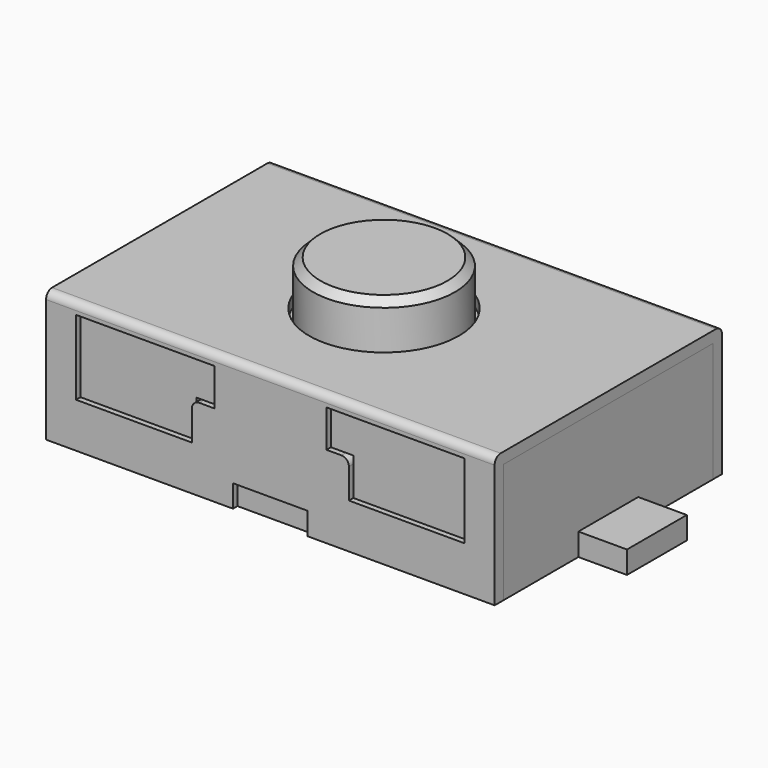
from build123d import *

# Parameters (mm, degrees)
F0_R          = 1
F1_DEPTH      = 1.75
F0_W          = 0.65
F0_H          = 1
F2_DEPTH      = 0.3
F3_W          = 1.55
F3_H          = 0.5
F3_W_2        = 1
F3_H_2        = 0.3
F4_DEPTH      = 1.901
F4_DEPTH_BACK = 1.901
F5_W          = 6
F5_H          = 3.5
F6_DEPTH      = 1.6
F7_W          = 6
F7_H          = 3.65
F8_DEPTH      = 1.6
F10_R         = 0.95
F11_DEPTH     = 0.75
F12_R         = 0.1
F13_SIZE      = 0.1


with BuildPart() as f1:
    # F0 (on Top) → F1 (new body)
    with BuildSketch(Plane.XY):
        Polygon((3, 1.9), (-3, 1.9), (-3, 0.5), (-3, -0.5), (-3, -1.9), (3, -1.9), (3, -0.5), (3, 0.5), align=None)
        Circle(F0_R, mode=Mode.SUBTRACT)
    extrude(amount=F1_DEPTH)

    # F0 (on Top) → F2 (join)
    with BuildSketch(Plane.XY):
        with Locations((-3.325, 0)):
            Rectangle(F0_W, F0_H)
        with Locations((3.325, 0)):
            Rectangle(F0_W, F0_H)
    extrude(amount=F2_DEPTH)

    # F3 (on Front) → F4 (cut, two sides)
    with BuildSketch(Plane.XZ) as f4_sk:
        Polygon((-0.75, 1.6), (-2.6, 1.6), (-2.6, 1.1), (-1.05, 1.1), (-0.75, 1.1), align=None)
        with Locations((-1.825, 0.85)):
            Rectangle(F3_W, F3_H)
        with Locations((1.825, 0.85)):
            Rectangle(F3_W, F3_H)
        Polygon((1.05, 1.1), (2.6, 1.1), (2.6, 1.6), (0.75, 1.6), (0.75, 1.1), align=None)
        with Locations((0, 0.15)):
            Rectangle(F3_W_2, F3_H_2)
    extrude(amount=-F4_DEPTH, mode=Mode.SUBTRACT)
    extrude(f4_sk.sketch, amount=F4_DEPTH_BACK, mode=Mode.SUBTRACT)

    # F5 (on face) → F6 (cut)
    with BuildSketch(Plane(origin=(0, 0, 0), x_dir=(1, 0, 0), z_dir=(0, 0, -1))):
        Rectangle(F5_W, F5_H)
    extrude(amount=-F6_DEPTH, mode=Mode.SUBTRACT)


with BuildPart() as f8:
    # F7 (on face) → F8 (new body)
    with BuildSketch(Plane(origin=(0, 0, 0), x_dir=(1, 0, 0), z_dir=(0, 0, -1))):
        Rectangle(F7_W, F7_H)
    extrude(amount=-F8_DEPTH)

    # F9: cut F1
    add(f1.part, mode=Mode.SUBTRACT)

    # F10 (on face) → F11 (join)
    with BuildSketch(Plane.XY.offset(1.6)):
        Circle(F10_R)
    extrude(amount=F11_DEPTH)

    # F13
    f13_edges = [f8.edges().sort_by_distance(p)[0] for p in [
        (-0.95, 0, 2.35),
    ]]
    chamfer(f13_edges, length=F13_SIZE)


with BuildPart() as f1_1:
    add(f1.part)

    # F12
    f12_edges = [f1_1.edges().sort_by_distance(p)[0] for p in [
        (0, -1.9, 1.75),
        (0, 1.9, 1.75),
        (-1.05, -1.825, 1.1),
        (1.05, -1.825, 1.1),
        (-1.05, 1.825, 1.1),
        (1.05, 1.825, 1.1),
    ]]
    fillet(f12_edges, radius=F12_R)


solid = Compound([f8.part, f1_1.part])
